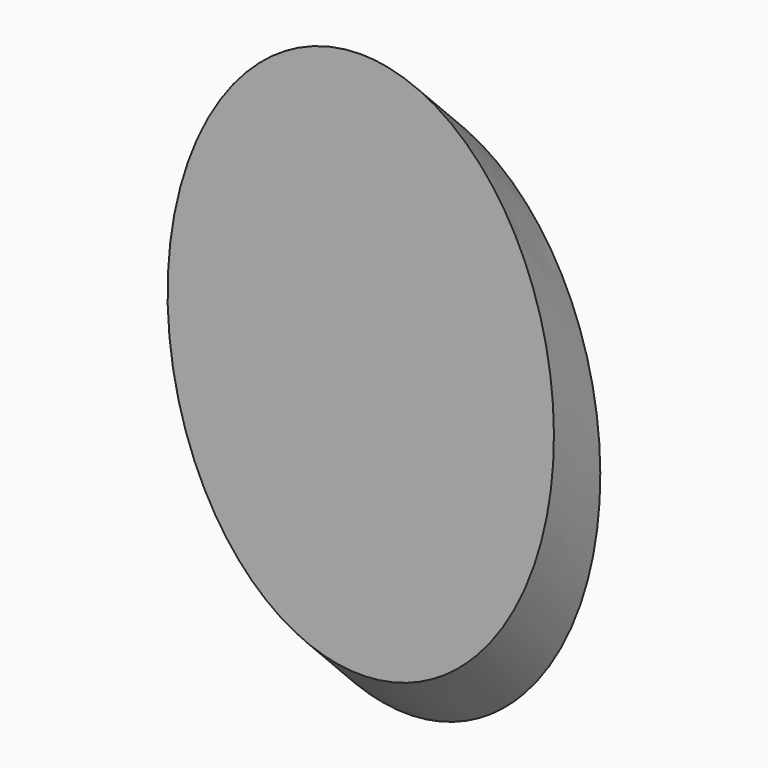
from build123d import *


with BuildPart() as f3:
    # F3: sweep along a path in F1
    with BuildLine(Plane.YZ) as f3_path:
        Line((0, 0), (-7.62, 7.62))
    # F2 (on Front) → F3 (sweep)
    with BuildSketch(Plane.XZ):
        with BuildLine():
            add(Edge.make_bspline(
                [(0, 35.921023), (-43.994091, 35.921023), (-21.997045, -17.960511), (0, -71.842046), (21.997045, -17.960511), (43.994091, 35.921023), (0, 35.921023)],
                knots=[0, 0, 0, 2.094395, 2.094395, 4.18879, 4.18879, 6.283185, 6.283185, 6.283185], degree=2, weights=[1, 0.5, 1, 0.5, 1, 0.5, 1]))
        make_face()
    sweep(path=f3_path.line)


solid = f3.part
